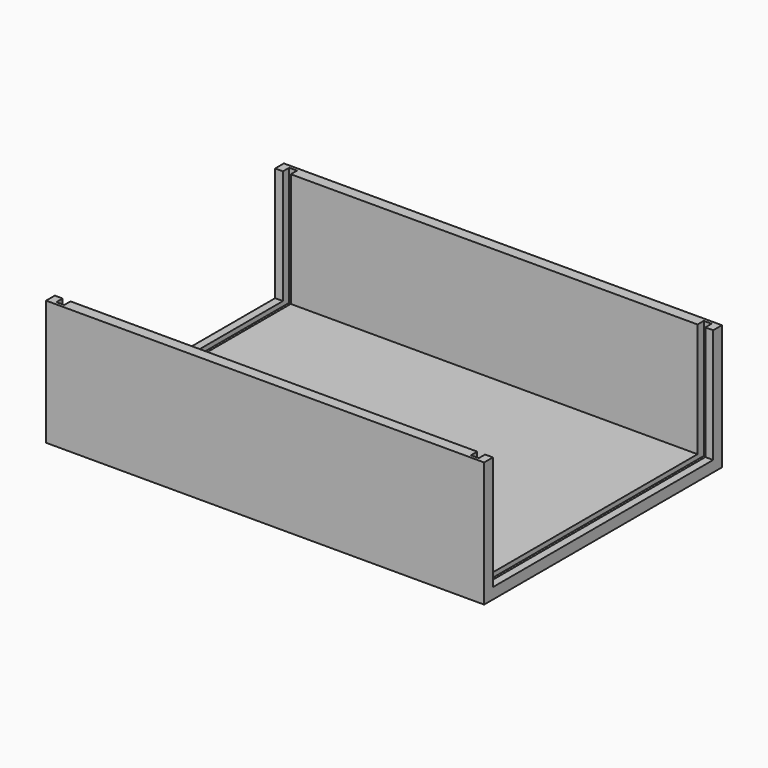
from build123d import *

# Parameters (mm, degrees)
SKETCH001_W     = 140
SKETCH001_H     = 95
PAD002_DEPTH    = 3.5
SKETCH006_W     = 140
SKETCH006_H     = 3.5
PAD003_DEPTH    = 36.5
SKETCH007_W     = 2.5
SKETCH007_H     = 93
POCKET001_DEPTH = 38


with BuildPart() as part:
    # Sketch001 → Pad002 (new body)
    with BuildSketch(Plane.XY):
        Rectangle(SKETCH001_W, SKETCH001_H)
    extrude(amount=-PAD002_DEPTH)

    # Sketch006 → Pad003 (join)
    with BuildSketch(Plane.XY):
        with Locations((0, 45.75)):
            Rectangle(SKETCH006_W, SKETCH006_H)
        with Locations((0, -45.75)):
            Rectangle(SKETCH006_W, SKETCH006_H)
    extrude(amount=PAD003_DEPTH)

    # Sketch007 (on Face16 of Pad003) → Pocket001 (cut)
    with BuildSketch(Plane.XY.offset(36.5)):
        with Locations((-66.25, 0)):
            Rectangle(SKETCH007_W, SKETCH007_H)
        with Locations((66.25, 0)):
            Rectangle(SKETCH007_W, SKETCH007_H)
    extrude(amount=-POCKET001_DEPTH, mode=Mode.SUBTRACT)


solid = part.part
